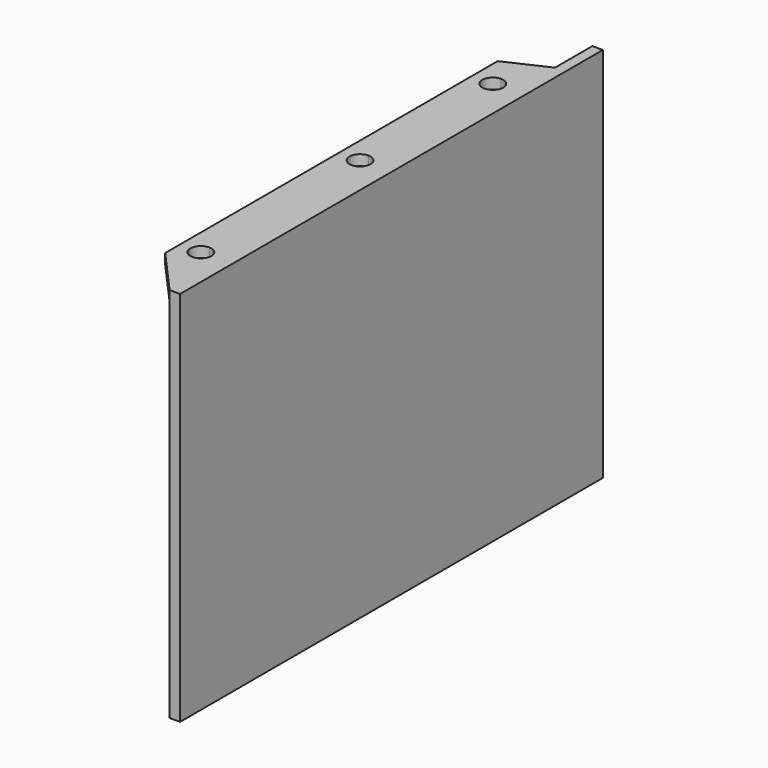
from build123d import *

# Parameters (mm, degrees)
F0_W     = 3.175
F0_H     = 160.30702
F1_DEPTH = 114.3
F2_W     = 146.1514011281
F2_H     = 3.175
F3_DEPTH = 12.7
F5_DEPTH = 25.4
F7_DEPTH = 25.4


with BuildPart() as f1:
    # F0 (on Top) → F1 (new body)
    with BuildSketch(Plane.XY):
        Rectangle(F0_W, F0_H)
    extrude(amount=F1_DEPTH)

    # F2 (on face) → F3 (join)
    with BuildSketch(Plane(origin=(-1.5875, 0, 0), x_dir=(0, -1, 0), z_dir=(-1, 0, 0))):
        with Locations((7.077809436, 112.7125)):
            Rectangle(F2_W, F2_H)
    extrude(amount=F3_DEPTH)

    # F4 (on face) → F5 (cut)
    with BuildSketch(Plane.XY.offset(114.3)):
        Polygon((-14.2875, 60.0979924202), (-1.5875, 65.9978911281), (-14.2875, 65.9978911281), align=None)
        Polygon((-14.2875, -80.15351), (-1.5875, -80.15351), (-14.2875, -65.9581273794), align=None)
    extrude(amount=-F5_DEPTH, mode=Mode.SUBTRACT)

    # F6 (on face) → F7 (cut)
    with BuildSketch(Plane.XY.offset(114.3)):
        with BuildLine():
            ThreePointArc((-4.7625, 50.3479417741), (-5.6924359697, 52.5930058044), (-7.9375, 53.5229417741))
            Line((-7.9375, 53.5229417741), (-7.9375, 47.1729417741))
            ThreePointArc((-7.9375, 47.1729417741), (-5.6924359697, 48.1028777439), (-4.7625, 50.3479417741))
        make_face()
        with BuildLine():
            ThreePointArc((-4.7625, -60.3558186897), (-5.6924359697, -58.1107546594), (-7.9375, -57.1808186897))
            Line((-7.9375, -57.1808186897), (-7.9375, -63.5308186897))
            ThreePointArc((-7.9375, -63.5308186897), (-5.6924359697, -62.60088272), (-4.7625, -60.3558186897))
        make_face()
        with BuildLine():
            Line((-7.9375, -63.5308186897), (-7.9375, -57.1808186897))
            ThreePointArc((-7.9375, -57.1808186897), (-11.1125, -60.3558186897), (-7.9375, -63.5308186897))
        make_face()
        with BuildLine():
            ThreePointArc((-4.7625, 0), (-5.6924359697, 2.2450640303), (-7.9375, 3.175))
            Line((-7.9375, 3.175), (-7.9375, -3.175))
            ThreePointArc((-7.9375, -3.175), (-5.6924359697, -2.2450640303), (-4.7625, 0))
        make_face()
        with BuildLine():
            Line((-7.9375, -3.175), (-7.9375, 3.175))
            ThreePointArc((-7.9375, 3.175), (-11.1125, 0), (-7.9375, -3.175))
        make_face()
        with BuildLine():
            Line((-7.9375, 47.1729417741), (-7.9375, 53.5229417741))
            ThreePointArc((-7.9375, 53.5229417741), (-11.1125, 50.3479417741), (-7.9375, 47.1729417741))
        make_face()
    extrude(amount=-F7_DEPTH, mode=Mode.SUBTRACT)


solid = f1.part
